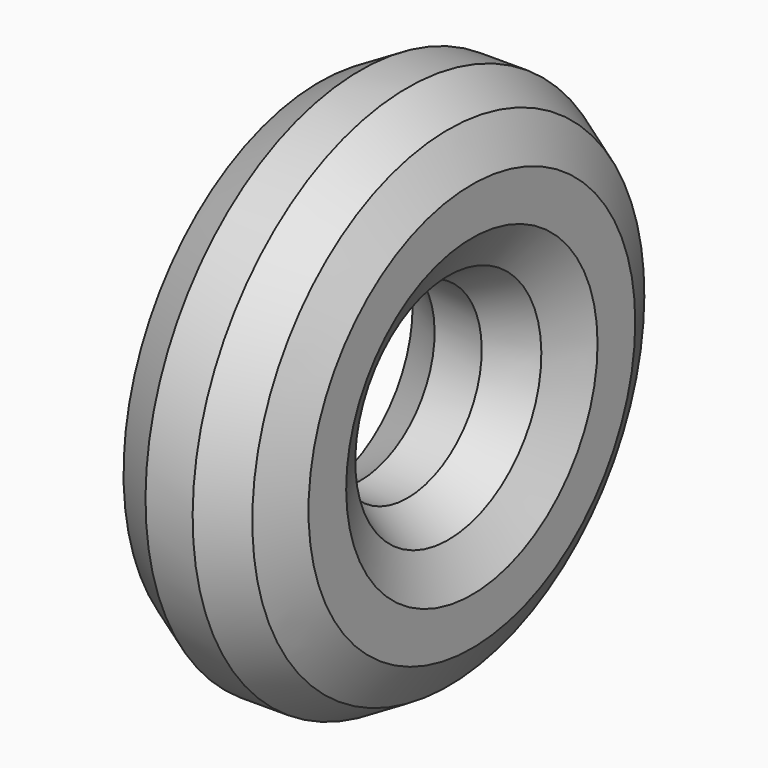
from build123d import *


with BuildPart() as f2:
    # F2: sweep along a path in F1
    with BuildLine(Plane.YZ) as f2_path:
        CenterArc((60.517904, 1.649187), 60.540371, 0, 360)
    # F0 (on Top) → F2 (sweep)
    with BuildSketch(Plane.XY):
        Polygon((-29.469332, 7.896284), (-29.469332, -7.896284), (-21.573048, -21.573048), (-7.896284, -29.469332), (7.896284, -29.469332), (21.573048, -21.573048), (29.469332, -7.896284), (29.469332, 7.896284), (21.573048, 21.573048), (7.896284, 29.469332), (-7.896284, 29.469332), (-21.573048, 21.573048), align=None)
    sweep(path=f2_path.line)


solid = f2.part
